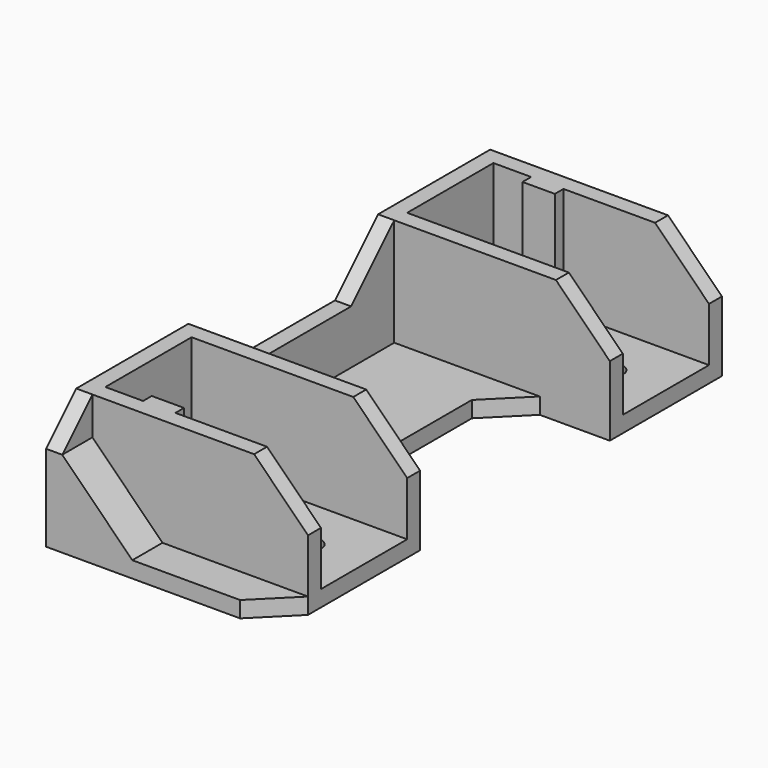
from build123d import *

# Parameters (mm, degrees)
F0_R     = 2.1
F1_DEPTH = 3
F3_DEPTH = 20
F4_R     = 2.1
F5_DEPTH = 3
F7_DEPTH = 7
F9_DEPTH = 103.001


with BuildPart() as f1:
    # F0 (on Top) → F1 (new body)
    with BuildSketch(Plane.XY):
        Polygon((40, 67), (40, 93), (-3, 93), (-3, -10), (33, -10), (40, -3), (40, 23), (27, 23), (20, 30), (20, 60), (27, 67), align=None)
        with Locations((30, 10)):
            Circle(F0_R, mode=Mode.SUBTRACT)
        with Locations((30, 80)):
            Circle(F0_R, mode=Mode.SUBTRACT)
    extrude(amount=F1_DEPTH)

    # F2 (on face) → F3 (join)
    with BuildSketch(Plane.XY.offset(3)):
        Polygon((40, 90), (40, 93), (-3, 93), (-3, -10), (0, -10), (0, -3), (40, -3), (40, 0), (13, 0), (13, 2), (7, 2), (7, 0), (0, 0), (0, 20), (40, 20), (40, 23), (0, 23), (0, 67), (40, 67), (40, 70), (0, 70), (0, 90), (7, 90), (7, 88), (13, 88), (13, 90), align=None)
    extrude(amount=F3_DEPTH)

    # F4 (on face) → F5 (cut, through all)
    with BuildSketch(Plane.YZ):
        with Locations((10, 13)):
            Circle(F4_R)
        Polygon((67, 23), (23, 23), (33, 13), (57, 13), align=None)
        with Locations((80, 13)):
            Circle(F4_R)
        Polygon((-10, 16), (-3, 23), (-10, 23), align=None)
    extrude(amount=-F5_DEPTH, mode=Mode.SUBTRACT)

    # F6 (on face) → F7 (join, through all)
    with BuildSketch(Plane.XZ.offset(10)):
        Polygon((0, 16), (0, 3), (13, 3), align=None)
    extrude(amount=-F7_DEPTH)

    # F8 (on face) → F9 (cut, through all)
    with BuildSketch(Plane(origin=(0, 93, 0), x_dir=(-1, 0, 0), z_dir=(0, 1, 0))):
        Polygon((-30, 23), (-40, 23), (-40, 13), align=None)
    extrude(amount=-F9_DEPTH, mode=Mode.SUBTRACT)


solid = f1.part
